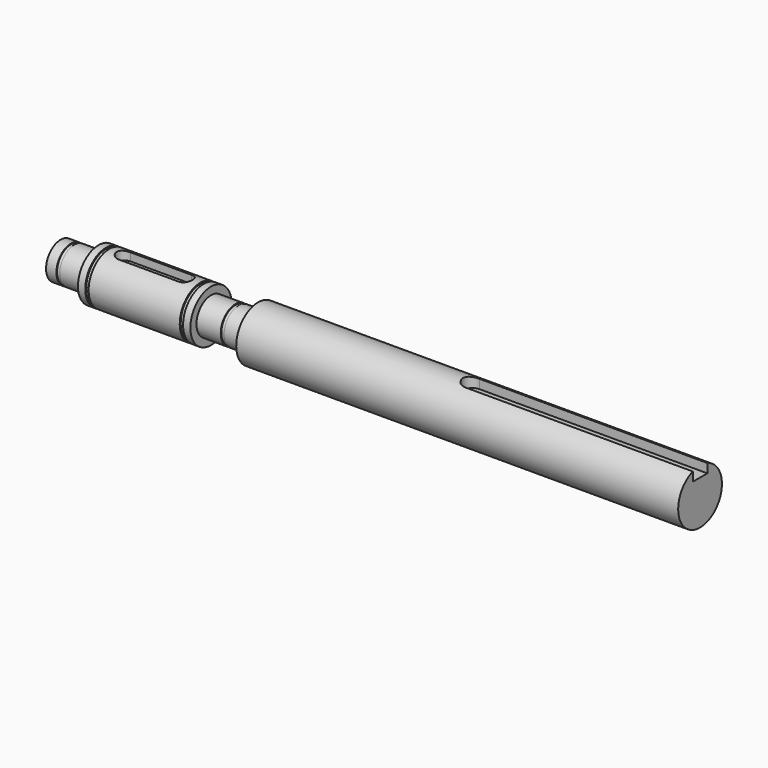
from build123d import *

# Parameters (mm, degrees)
F4_DEPTH = 3
F7_DEPTH = 3.5


with BuildPart() as f1:
    # F0 (on Front) → F1 (revolve)
    with BuildSketch(Plane.XZ):
        Polygon((2.250003, 6), (2.250003, 0), (64.250003, 0), (81.750003, 0), (192.750003, 0), (212.750003, 0), (212.750003, 6), (212.750003, 9), (192.750003, 9), (67.250003, 9), (67.250003, 6), (62.250003, 6), (60.850003, 6), (60.850003, 5.75), (59.750003, 5.75), (59.750003, 6), (51.750003, 6), (51.750003, 8.5), (49.350003, 8.5), (49.350003, 8.1), (48.250003, 8.1), (48.250003, 8.5), (18.250003, 8.5), (18.250003, 8.1), (17.150003, 8.1), (17.150003, 8.5), (14.750003, 8.5), (14.750003, 6), (6.750003, 6), (6.750003, 5.75), (5.650003, 5.75), (5.650003, 6), align=None)
    revolve(axis=Axis((33.250003, 0, 0), (1, 0, 0)))

    # F3 (on offset) → F4 (cut)
    with BuildSketch(Plane.XY.offset(8.5)):
        with BuildLine():
            Line((43.250003, 2.5), (23.250003, 2.5))
            ThreePointArc((23.250003, 2.5), (20.750003, 0), (23.250003, -2.5))
            Line((23.250003, -2.5), (43.250003, -2.5))
            ThreePointArc((43.250003, -2.5), (45.750003, 0), (43.250003, 2.5))
        make_face()
    extrude(amount=-F4_DEPTH, mode=Mode.SUBTRACT)

    # F6 (on offset) → F7 (cut)
    with BuildSketch(Plane.XY.offset(9)):
        with BuildLine():
            Line((212.750003, 3), (137.750003, 3))
            ThreePointArc((137.750003, 3), (134.750003, 0), (137.750003, -3))
            Line((137.750003, -3), (212.750003, -3))
            Line((212.750003, -3), (212.750003, 3))
        make_face()
    extrude(amount=-F7_DEPTH, mode=Mode.SUBTRACT)


solid = f1.part
